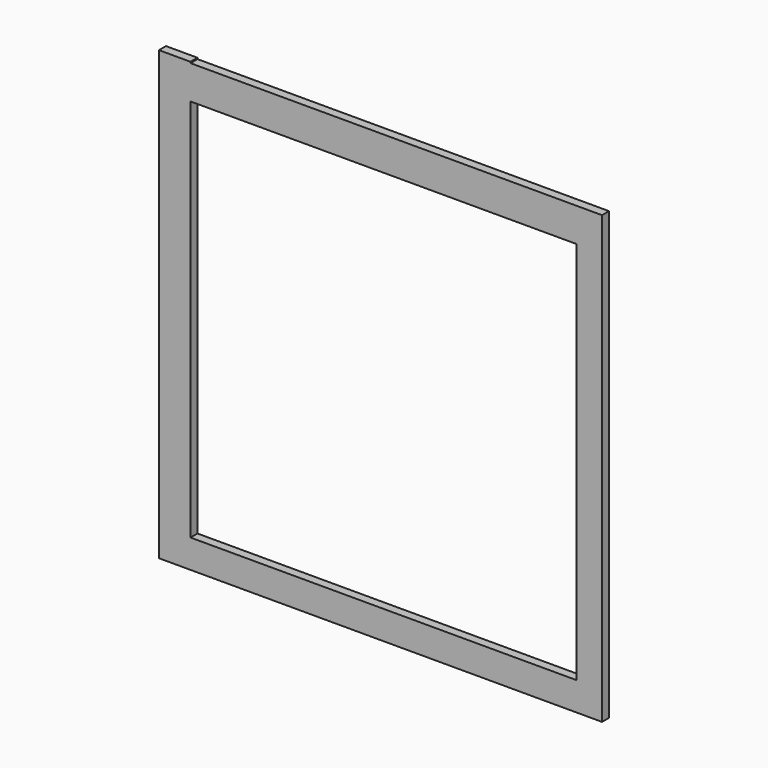
from build123d import *

# Parameters (mm, degrees)
F0_W     = 132.1501880884
F0_H     = 11.5311816335
F1_DEPTH = 3


with BuildPart() as f1:
    # F0 (on Front) → F1 (new body)
    with BuildSketch(Plane.XZ):
        Polygon((-75.7218897343, -66.8011903763), (-75.7218897343, -76.5516757965), (75.9292840958, -76.5516757965), (75.9292840958, -66.8011903763), (67.2160685062, -66.8011903763), (-64.9341195822, -66.8011903763), align=None)
        Polygon((-75.7218897343, 76.5516906977), (-75.7218897343, -66.8011903763), (-64.9341195822, -66.8011903763), (-64.9341195822, 64.6055862308), (-64.9341195822, 76.1367678642), (-64.9341195822, 76.5516906977), align=None)
        with Locations((1.140974462, 70.3711770475)):
            Rectangle(F0_W, F0_H)
        Polygon((67.2160685062, -66.8011903763), (75.9292840958, -66.8011903763), (75.9292840958, 76.1367678642), (67.2160685062, 76.1367678642), (67.2160685062, 64.6055862308), align=None)
    extrude(amount=F1_DEPTH)


solid = f1.part
